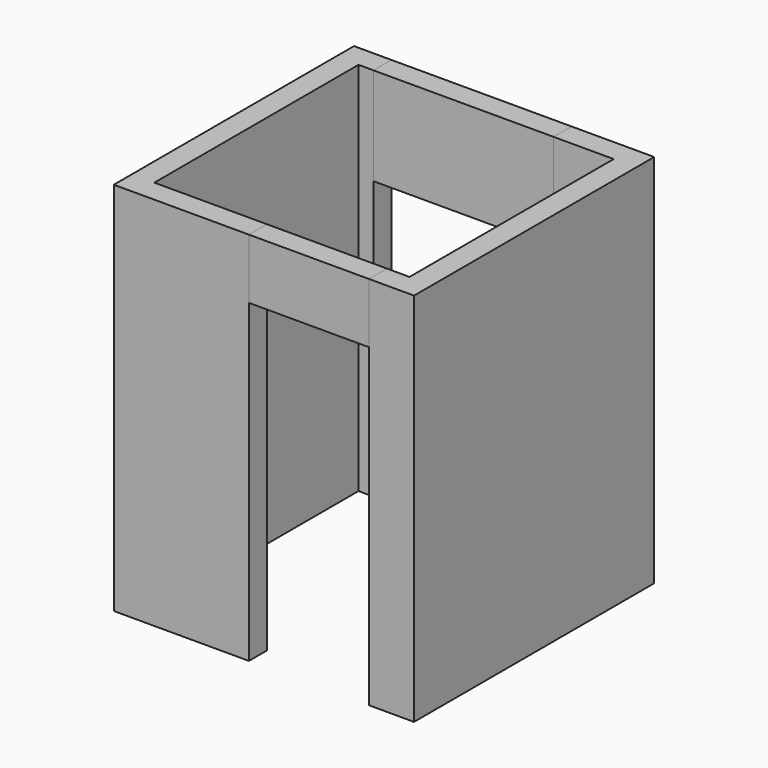
from build123d import *

# Parameters (mm, degrees)
EXTRUDE001_DEPTH                             = 2500
EXTRUDE003_DEPTH                             = 2500
RECTANGLE003_AS_DRAWN_W                      = 800
RECTANGLE003_AS_DRAWN_H                      = 2100
EXTRUDE004_DEPTH                             = 150
EXTRUDE004_ONTO_RECTANGLE003_ROLL_ANGLE      = 90
DWIRE003_W                                   = 800
DWIRE003_H                                   = 150
EXTRUDE_DEPTH                                = 2500
RECTANGLE004_AS_DRAWN_W                      = 1200
RECTANGLE004_AS_DRAWN_H                      = 1000
EXTRUDE005_DEPTH                             = 150
EXTRUDE005_ONTO_RECTANGLE004_ROLL_ANGLE      = 90
EXTRUDE005_ONTO_RECTANGLE004_PLACEMENT_ANGLE = 180
DWIRE002_W                                   = 1200
DWIRE002_H                                   = 150
EXTRUDE002_DEPTH                             = 2500


with BuildPart() as extrude001:
    # DWire001 → Extrude001 (new body)
    with BuildSketch(Plane.XY):
        Polygon((1700, 150), (1700, 0), (2000, 0), (2000, 2000), (1450, 2000), (1450, 1850), (1850, 1850), (1850, 150), align=None)
    extrude(amount=EXTRUDE001_DEPTH)


with BuildPart() as extrude003:
    # DWire → Extrude003 (new body)
    with BuildSketch(Plane.XY):
        Polygon((250, 1850), (150, 1850), (150, 150), (900, 150), (900, 0), (0, 0), (0, 2000), (250, 2000), align=None)
    extrude(amount=EXTRUDE003_DEPTH)


with BuildPart() as extrude004:
    # Rectangle003 as drawn → Extrude004 (new)
    with BuildSketch(Plane.XY):
        with Locations((400, 1050)):
            Rectangle(RECTANGLE003_AS_DRAWN_W, RECTANGLE003_AS_DRAWN_H)
    extrude(amount=-EXTRUDE004_DEPTH)


with BuildPart() as extrude004_1:
    # Extrude004 onto Rectangle003 roll: moved
    add(extrude004.part.rotate(Axis((0, 0, 0), (1, 0, 0)), EXTRUDE004_ONTO_RECTANGLE003_ROLL_ANGLE))


with BuildPart() as extrude004_2:
    # Extrude004 onto Rectangle003 placement: moved
    add(extrude004_1.part.moved(Location((900, 0, 0))))


with BuildPart() as cut:
    # DWire003 → Extrude (new body)
    with BuildSketch(Plane.XY):
        with Locations((1300, 75)):
            Rectangle(DWIRE003_W, DWIRE003_H)
    extrude(amount=EXTRUDE_DEPTH)

    # Cut: cut Extrude004
    add(extrude004_2.part, mode=Mode.SUBTRACT)


with BuildPart() as extrude005:
    # Rectangle004 as drawn → Extrude005 (new)
    with BuildSketch(Plane.XY):
        with Locations((600, 500)):
            Rectangle(RECTANGLE004_AS_DRAWN_W, RECTANGLE004_AS_DRAWN_H)
    extrude(amount=-EXTRUDE005_DEPTH)


with BuildPart() as extrude005_1:
    # Extrude005 onto Rectangle004 roll: moved
    add(extrude005.part.rotate(Axis((0, 0, 0), (1, 0, 0)), EXTRUDE005_ONTO_RECTANGLE004_ROLL_ANGLE))


with BuildPart() as extrude005_2:
    # Extrude005 onto Rectangle004 placement: moved
    add(extrude005_1.part.moved(Location((1450, 2000, 850))).rotate(Axis((1450, 2000, 850), (0, 0, 1)), EXTRUDE005_ONTO_RECTANGLE004_PLACEMENT_ANGLE))


with BuildPart() as cut001:
    # DWire002 → Extrude002 (new body)
    with BuildSketch(Plane.XY):
        with Locations((850, 1925)):
            Rectangle(DWIRE002_W, DWIRE002_H)
    extrude(amount=EXTRUDE002_DEPTH)

    # Cut001: cut Extrude005
    add(extrude005_2.part, mode=Mode.SUBTRACT)


solid = Compound([extrude001.part, extrude003.part, cut.part, cut001.part])
